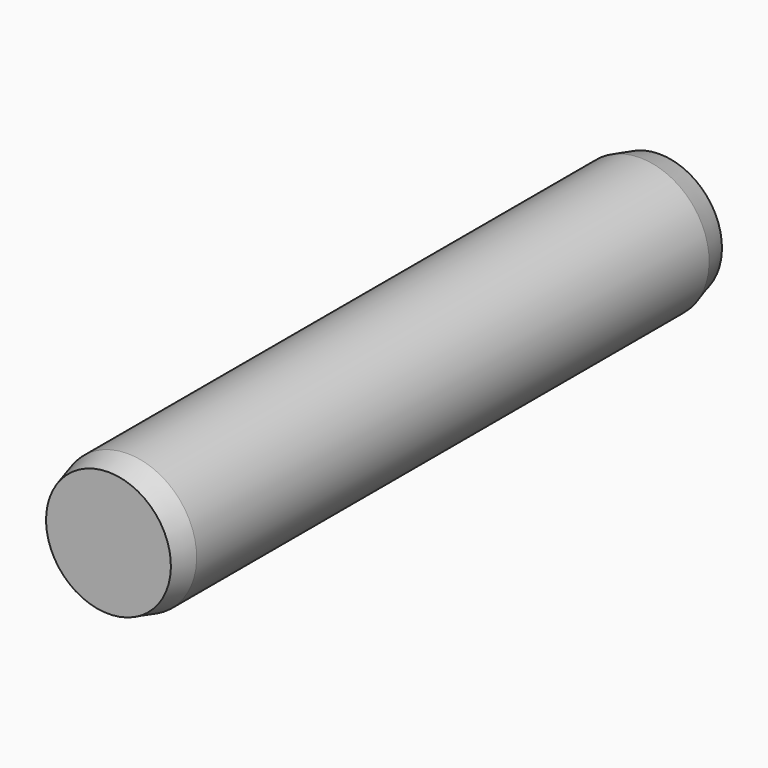
from build123d import *


with BuildPart() as part:
    # Sketch → Revolution (revolve)
    with BuildSketch(Plane.YZ):
        Polygon((0, 0), (0, 0.906218), (0.35, 1), (9.65, 1), (10, 0.906218), (10, 0), align=None)
    revolve(axis=Axis((0, 0, 0), (0, 1, 0)))


solid = part.part
